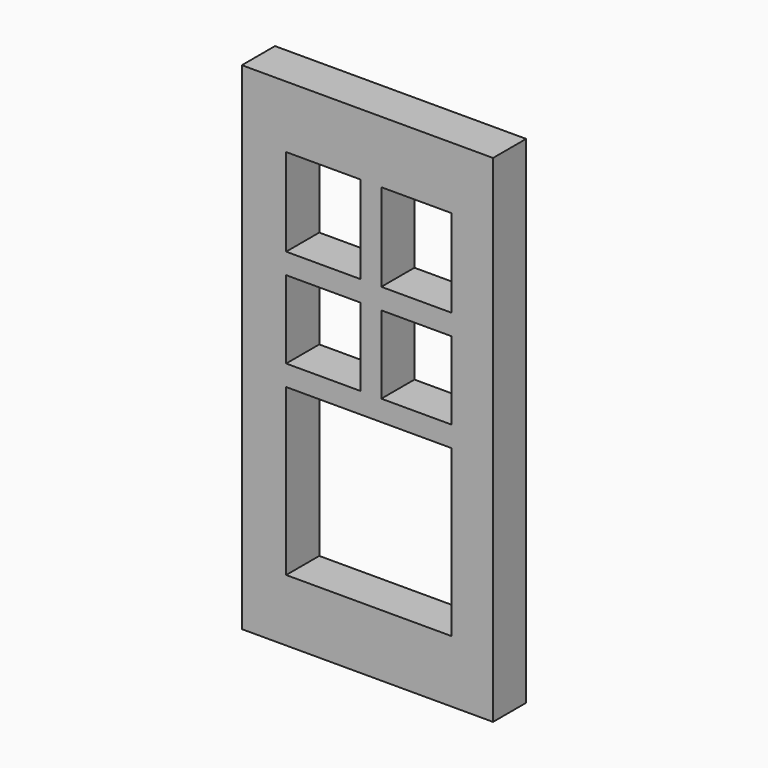
from build123d import *

# Parameters (mm, degrees)
SKETCH_W        = 23
SKETCH_H        = 12
PAD_DEPTH       = 1
SKETCH001_W     = 4
SKETCH001_H     = 4
SKETCH001_W_2   = 9
SKETCH001_W_3   = 1.8
SKETCH001_H_2   = 2.119738
SKETCH001_W_4   = 1.7
SKETCH001_H_3   = 1.880262
SKETCH001_H_4   = 2.108956
SKETCH001_W_5   = 1.95
SKETCH001_H_5   = 1.880263
SKETCH001_H_6   = 2.119737
POCKET_DEPTH    = 5
SKETCH002_W     = 16
SKETCH002_H     = 12
POCKET001_DEPTH = 5
SKETCH003_W     = 0.92929
SKETCH003_H     = 12
POCKET002_DEPTH = 5


with BuildPart() as part:
    # Sketch → Pad (new body)
    with BuildSketch(Plane.XZ):
        with Locations((0.224666, -4.175566)):
            Rectangle(SKETCH_W, SKETCH_H)
    extrude(amount=PAD_DEPTH)

    # Sketch001 (on Face6 of Pad) → Pocket (cut)
    with BuildSketch(Plane.XZ.offset(1)):
        with Locations((-7.275334, -6.675566)):
            Rectangle(SKETCH001_W, SKETCH001_H)
        with Locations((7.724666, -6.675566)):
            Rectangle(SKETCH001_W, SKETCH001_H)
        with Locations((0.224666, -6.675566)):
            Rectangle(SKETCH001_W_2, SKETCH001_H)
        with Locations((-8.375334, -0.735435)):
            Rectangle(SKETCH001_W_3, SKETCH001_H_2)
        with Locations((-6.125334, -0.735435)):
            Rectangle(SKETCH001_W_4, SKETCH001_H_2)
        with Locations((-8.375334, -3.235435)):
            Rectangle(SKETCH001_W_3, SKETCH001_H_3)
        with Locations((-6.125334, -3.235435)):
            Rectangle(SKETCH001_W_4, SKETCH001_H_3)
        with Locations((-3.375334, -0.730044)):
            Rectangle(SKETCH001_W_3, SKETCH001_H_4)
        with Locations((-1.000334, -0.730044)):
            Rectangle(SKETCH001_W_5, SKETCH001_H_4)
        with Locations((-3.375334, -3.224654)):
            Rectangle(SKETCH001_W_3, SKETCH001_H_5)
        with Locations((-1.000334, -3.224654)):
            Rectangle(SKETCH001_W_5, SKETCH001_H_5)
        with Locations((1.374666, -0.730044)):
            Rectangle(SKETCH001_W_3, SKETCH001_H_4)
        with Locations((3.674666, -0.724653)):
            Rectangle(SKETCH001_W_3, SKETCH001_H_6)
        with Locations((1.374666, -3.224654)):
            Rectangle(SKETCH001_W_3, SKETCH001_H_5)
        with Locations((3.749666, -3.224654)):
            Rectangle(SKETCH001_W_5, SKETCH001_H_5)
        with Locations((6.624666, -0.732224)):
            Rectangle(SKETCH001_W_3, SKETCH001_H_2)
        with Locations((8.874666, -0.732224)):
            Rectangle(SKETCH001_W_4, SKETCH001_H_2)
        with Locations((6.624666, -3.232224)):
            Rectangle(SKETCH001_W_3, SKETCH001_H_3)
        with Locations((8.874666, -3.232224)):
            Rectangle(SKETCH001_W_4, SKETCH001_H_3)
    extrude(amount=-POCKET_DEPTH, mode=Mode.SUBTRACT)

    # Sketch002 (on Face5 of Pocket) → Pocket001 (cut)
    with BuildSketch(Plane.XZ.offset(1)):
        with Locations((3.724666, -4.175566)):
            Rectangle(SKETCH002_W, SKETCH002_H)
    extrude(amount=-POCKET001_DEPTH, mode=Mode.SUBTRACT)

    # Sketch003 (on Face4 of Pocket001) → Pocket002 (cut)
    with BuildSketch(Plane.XZ.offset(1)):
        with Locations((-10.810689, -4.175566)):
            Rectangle(SKETCH003_W, SKETCH003_H)
    extrude(amount=-POCKET002_DEPTH, mode=Mode.SUBTRACT)


solid = part.part
